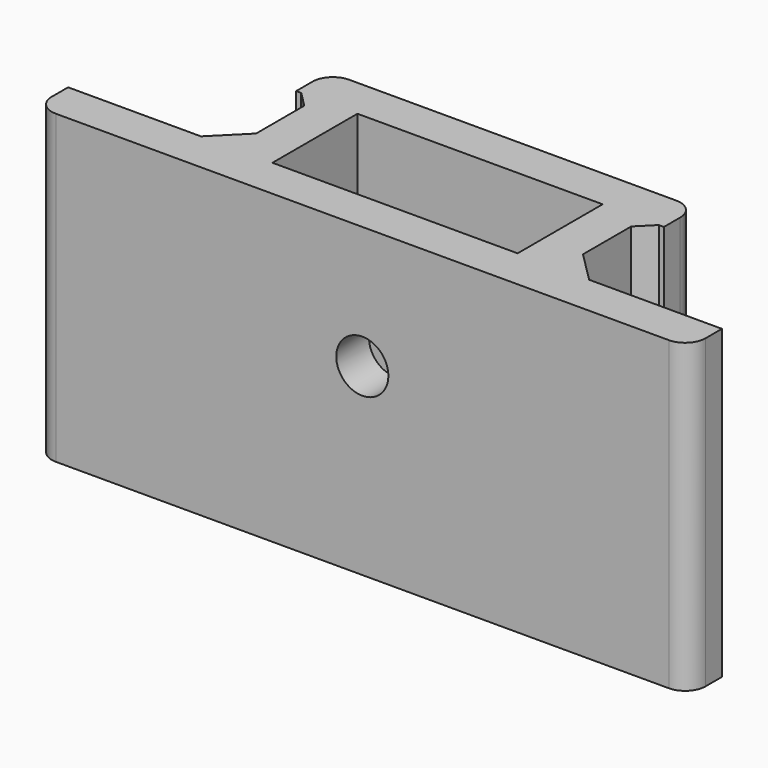
from build123d import *

# Parameters (mm, degrees)
SKETCH173_W     = 24
SKETCH173_H     = 10.4
PAD043_DEPTH    = 30
SKETCH174_W     = 24
SKETCH174_H     = 10.4
PAD044_DEPTH    = 8
SKETCH175_R     = 2.75
POCKET095_DEPTH = 8
SKETCH176_R     = 5.25
POCKET096_DEPTH = 3
SKETCH177_R     = 2.55
POCKET097_DEPTH = 36.551
CHAMFER072_SIZE = 3
FILLET045_R     = 2
CHAMFER073_SIZE = 1.5


with BuildPart() as part:
    # Sketch173 → Pad043 (new body)
    with BuildSketch(Plane.XY):
        Polygon((-18, 36.55), (18, 36.55), (18, 32.55), (16, 32.55), (16, 22.15), (32, 22.15), (32, 18.15), (-32, 18.15), (-32, 22.15), (-16, 22.15), (-16, 32.55), (-18, 32.55), align=None)
        with Locations((0, 27.35)):
            Rectangle(SKETCH173_W, SKETCH173_H, mode=Mode.SUBTRACT)
    extrude(amount=PAD043_DEPTH)

    # Sketch174 → Pad044 (join)
    with BuildSketch(Plane.XY):
        with Locations((0, 27.35)):
            Rectangle(SKETCH174_W, SKETCH174_H)
    extrude(amount=PAD044_DEPTH)

    # Sketch175 → Pocket095 (cut)
    with BuildSketch(Plane.XY):
        with Locations((0, 27.35)):
            Circle(SKETCH175_R)
    extrude(amount=POCKET095_DEPTH, mode=Mode.SUBTRACT)

    # Sketch176 → Pocket096 (cut)
    with BuildSketch(Plane.XY.offset(8)):
        with Locations((0, 27.35)):
            Circle(SKETCH176_R)
    extrude(amount=-POCKET096_DEPTH, mode=Mode.SUBTRACT)

    # Sketch177 → Pocket097 (cut, through all)
    with BuildSketch(Plane.XZ):
        with Locations((0, 18)):
            Circle(SKETCH177_R)
    extrude(amount=-POCKET097_DEPTH, mode=Mode.SUBTRACT)

    # Chamfer072
    chamfer072_edges = [part.edges().sort_by_distance(p)[0] for p in [
        (-16, 22.15, 15),
        (16, 22.15, 15),
    ]]
    chamfer(chamfer072_edges, length=CHAMFER072_SIZE)

    # Fillet045
    fillet045_edges = [part.edges().sort_by_distance(p)[0] for p in [
        (-18, 36.55, 15),
        (18, 36.55, 15),
        (-32, 18.15, 15),
        (32, 18.15, 15),
    ]]
    fillet(fillet045_edges, radius=FILLET045_R)

    # Chamfer073
    chamfer073_edges = [part.edges().sort_by_distance(p)[0] for p in [
        (-16, 32.55, 15),
        (16, 32.55, 15),
    ]]
    chamfer(chamfer073_edges, length=CHAMFER073_SIZE)


solid = part.part
